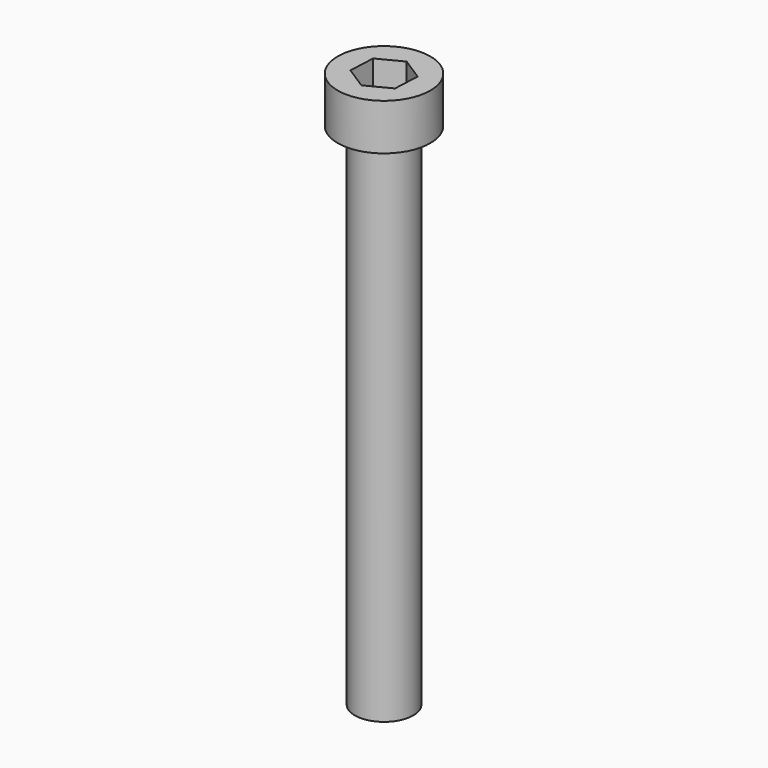
from build123d import *

# Parameters (mm, degrees)
F0_R     = 3.175
F1_DEPTH = 3.175
F2_R     = 2.002598
F3_DEPTH = 34.925


with BuildPart() as f1:
    # F0 (on Top) → F1 (new body)
    with BuildSketch(Plane.XY):
        Circle(F0_R)
        Polygon((-1.544452, 0.991105), (0.086096, 1.833087), (1.630548, 0.841982), (1.544452, -0.991105), (-0.086096, -1.833087), (-1.630548, -0.841982), align=None, mode=Mode.SUBTRACT)
    extrude(amount=F1_DEPTH)

    # F2 (on face) + F0 (on Top) → F3 (join)
    with BuildSketch(Plane.XY):
        Circle(F2_R)
        Polygon((0.086096, 1.833087), (1.630548, 0.841982), (1.544452, -0.991105), (-0.086096, -1.833087), (-1.630548, -0.841982), (-1.544452, 0.991105), align=None, mode=Mode.SUBTRACT)
    with BuildSketch(Plane.XY):
        Polygon((1.630548, 0.841982), (0.086096, 1.833087), (-1.544452, 0.991105), (-1.630548, -0.841982), (-0.086096, -1.833087), (1.544452, -0.991105), align=None)
    extrude(amount=-F3_DEPTH)


solid = f1.part
